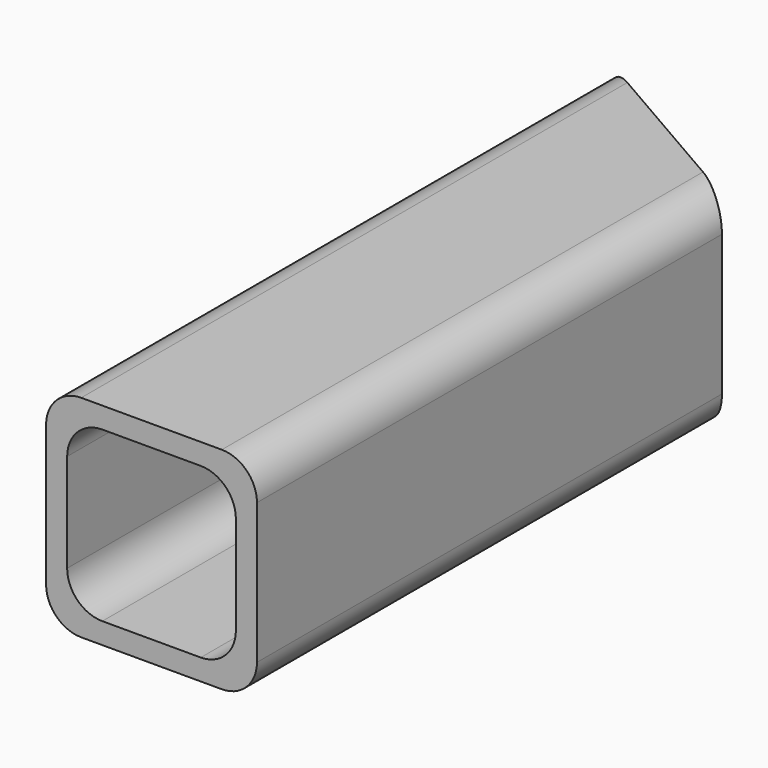
from build123d import *

# Parameters (mm, degrees)
F0_W     = 60
F0_H     = 60
F1_DEPTH = 200
F2_T     = -6
F3_R     = 10
F5_DEPTH = 60.001


with BuildPart() as f1:
    # F0 (on Front) → F1 (new body)
    with BuildSketch(Plane.XZ):
        with Locations((30, 30)):
            Rectangle(F0_W, F0_H)
    extrude(amount=F1_DEPTH)

    # F2
    f2_openings = [f1.faces().sort_by_distance(p)[0] for p in [
        (30, -200, 30),
        (30, 0, 30),
    ]]
    offset(amount=F2_T, openings=f2_openings)

    # F3
    f3_edges = [f1.edges().sort_by_distance(p)[0] for p in [
        (60, -100, 60),
        (0, -100, 60),
        (60, -100, 0),
        (6, -100, 6),
        (0, -100, 0),
        (54, -100, 6),
        (54, -100, 54),
        (6, -100, 54),
    ]]
    fillet(f3_edges, radius=F3_R)

    # F4 (on face) → F5 (cut, through all)
    with BuildSketch(Plane.XY.offset(60)):
        Polygon((0, 0), (70, -40.4145188433), (70, 0), align=None)
    extrude(amount=-F5_DEPTH, mode=Mode.SUBTRACT)


solid = f1.part
